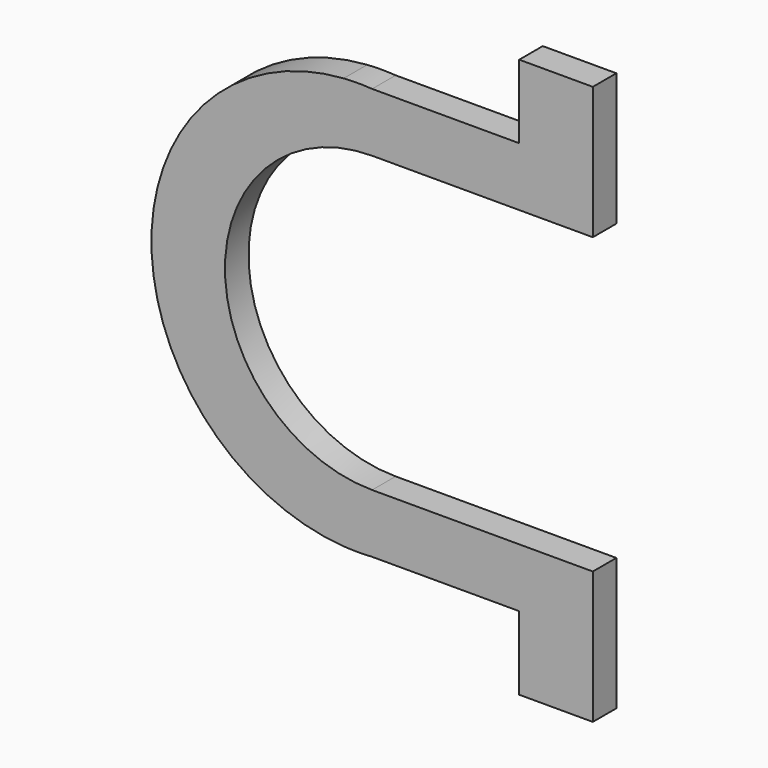
from build123d import *

# Parameters (mm, degrees)
F1_DEPTH = 25.4


with BuildPart() as f1:
    # F0 (on Front) → F1 (new body)
    with BuildSketch(Plane.XZ):
        with BuildLine():
            ThreePointArc((0, 177.8), (-12.276667, 178.223333), (-24.553333, 177.8))
            Line((-24.553333, 177.8), (0, 177.8))
        make_face()
        with BuildLine():
            Line((0, 177.8), (-24.553333, 177.8))
            ThreePointArc((-24.553333, 177.8), (-190.5, 0), (-24.553333, -177.8))
            Line((-24.553333, -177.8), (0, -177.8))
            Line((0, -177.8), (127, -177.8))
            Line((127, -177.8), (127, -241.3))
            Line((127, -241.3), (190.5, -241.3))
            Line((190.5, -241.3), (190.5, -177.8))
            Line((190.5, -177.8), (190.5, -127))
            Line((190.5, -127), (0, -127))
            ThreePointArc((0, -127), (-127, 0), (0, 127))
            Line((0, 127), (190.5, 127))
            Line((190.5, 127), (190.5, 177.8))
            Line((190.5, 177.8), (190.5, 241.3))
            Line((190.5, 241.3), (127, 241.3))
            Line((127, 241.3), (127, 177.8))
            Line((127, 177.8), (0, 177.8))
        make_face()
        with BuildLine():
            Line((0, -177.8), (-24.553333, -177.8))
            ThreePointArc((-24.553333, -177.8), (-12.276667, -178.223333), (0, -177.8))
        make_face()
    extrude(amount=F1_DEPTH)


solid = f1.part
